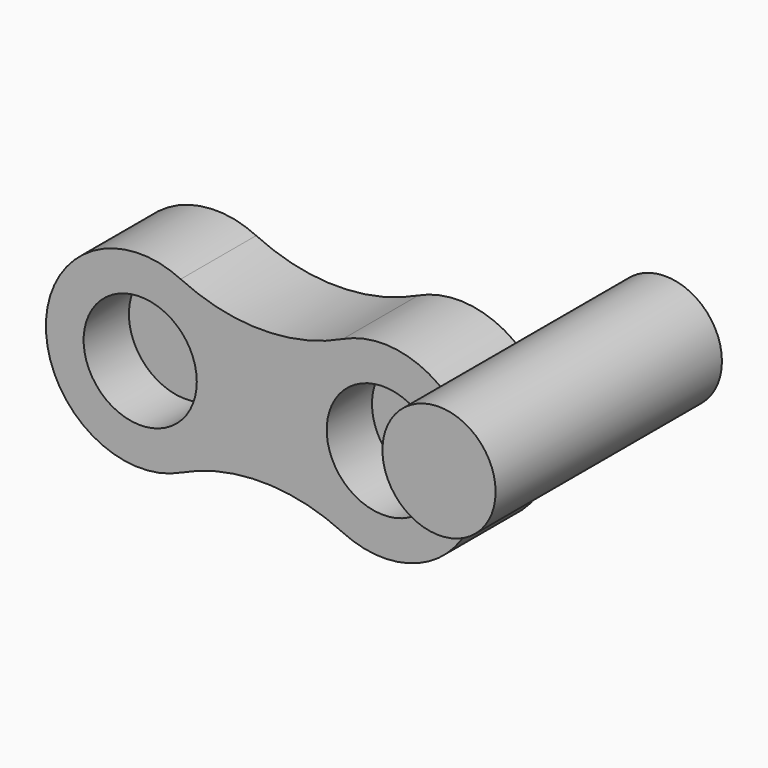
from build123d import *

# Parameters (mm, degrees)
F0_R     = 15
F1_DEPTH = 25
F2_DEPTH = 10
F3_R     = 15
F4_DEPTH = 75


with BuildPart() as f1:
    # F0 (on Front) → F1 (new body)
    with BuildSketch(Plane.XZ):
        with BuildLine():
            ThreePointArc((-39.443385, 0), (-43.306757, 13.350766), (-53.702821, 22.575214))
            ThreePointArc((-53.702821, 22.575214), (-89.443385, 0), (-53.702821, -22.575214))
            ThreePointArc((-53.702821, -22.575214), (-43.306757, -13.350766), (-39.443385, 0))
        make_face()
        with Locations((-64.443385, 0)):
            Circle(F0_R, mode=Mode.SUBTRACT)
        with BuildLine():
            ThreePointArc((-10.740564, -22.575214), (-25, 0), (-10.740564, 22.575214))
            ThreePointArc((-10.740564, 22.575214), (-32.221692, 17.725642), (-53.702821, 22.575214))
            ThreePointArc((-53.702821, 22.575214), (-43.306757, 13.350766), (-39.443385, 0))
            ThreePointArc((-39.443385, 0), (-43.306757, -13.350766), (-53.702821, -22.575214))
            ThreePointArc((-53.702821, -22.575214), (-32.221692, -17.725642), (-10.740564, -22.575214))
        make_face()
        with BuildLine():
            ThreePointArc((-10.740564, -22.575214), (13.350766, -21.136628), (25, 0))
            ThreePointArc((25, 0), (13.350766, 21.136628), (-10.740564, 22.575214))
            ThreePointArc((-10.740564, 22.575214), (-25, 0), (-10.740564, -22.575214))
        make_face()
        Circle(F0_R, mode=Mode.SUBTRACT)
    extrude(amount=F1_DEPTH)

    # F0 (on Front) → F2 (join)
    with BuildSketch(Plane.XZ):
        Circle(F0_R)
        with Locations((-64.443385, 0)):
            Circle(F0_R)
    extrude(amount=F2_DEPTH)


with BuildPart() as f4:
    # F3 (on Front) → F4 (new body)
    with BuildSketch(Plane.XZ):
        with Locations((54.766618, 33.397865)):
            Circle(F3_R)
    extrude(amount=F4_DEPTH)


solid = Compound([f1.part, f4.part])
